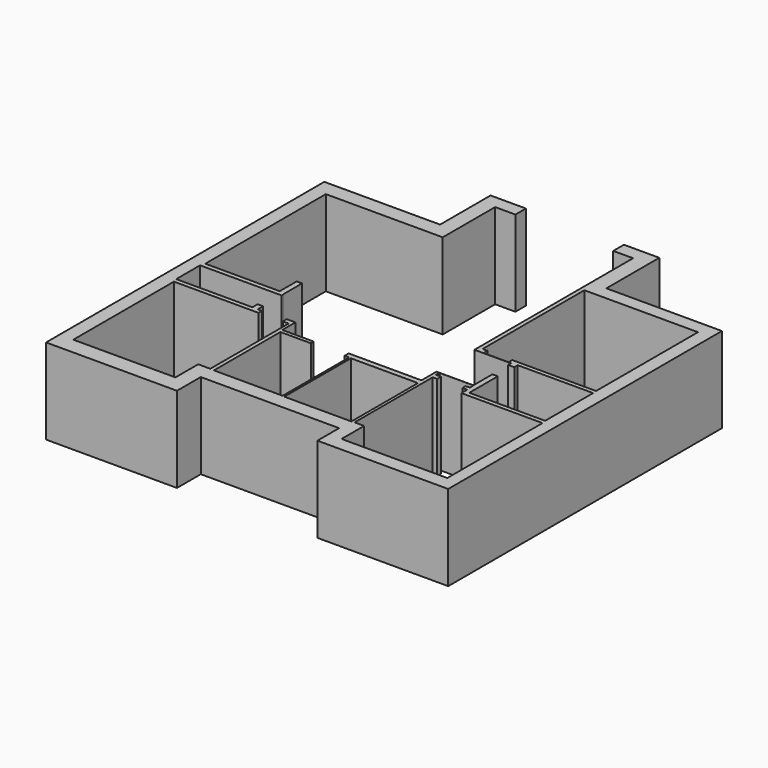
from build123d import *

# Parameters (mm, degrees)
PAD_DEPTH            = 10
POCKET_DEPTH         = 0.001
POCKET_DEPTH_BACK    = 10.001
POCKET001_DEPTH      = 0.001
POCKET001_DEPTH_BACK = 10.001
POCKET002_DEPTH      = 0.001
POCKET002_DEPTH_BACK = 10.001
POCKET003_DEPTH      = 0.001
POCKET003_DEPTH_BACK = 10.001
POCKET004_DEPTH      = 0.001
POCKET004_DEPTH_BACK = 10.001
POCKET005_DEPTH      = 0.001
POCKET005_DEPTH_BACK = 10.001
POCKET006_DEPTH      = 0.001
POCKET006_DEPTH_BACK = 10.001
POCKET007_DEPTH      = 0.001
POCKET007_DEPTH_BACK = 10.001


with BuildPart() as part:
    # Sketch → Pad (new body)
    with BuildSketch(Plane.XY):
        Polygon((-24.869964, 16.395561), (-11.340966, 16.395561), (-11.340966, 23.768572), (8.37961, 23.768572), (8.37961, 16.040237), (21.881983, 16.040237), (21.881983, -23.94381), (6.594811, -23.94381), (6.594811, -20.773636), (-9.572513, -20.773636), (-9.572513, -24.250378), (-24.869964, -24.250378), align=None)
    extrude(amount=PAD_DEPTH)

    # Sketch001 → Pocket (cut, two sides)
    with BuildSketch(Plane.XY) as pocket_sk:
        Polygon((7.042854, 14.493185), (7.042854, -0.376181), (7.60472, -0.376181), (7.60472, -0.938048), (10.529679, -0.938048), (10.529679, -0.392844), (20.320467, -0.392844), (20.320467, 4.433404), (20.320467, 12.107393), (20.320467, 14.493185), (11.347224, 14.493185), (7.737097, 14.493185), align=None)
    extrude(amount=-POCKET_DEPTH, mode=Mode.SUBTRACT)
    extrude(pocket_sk.sketch, amount=POCKET_DEPTH_BACK, mode=Mode.SUBTRACT)

    # Sketch002 → Pocket001 (cut, two sides)
    with BuildSketch(Plane.XY) as pocket001_sk:
        Polygon((6.562266, -8.697514), (6.562266, 17.730482), (6.562266, 20.972402), (6.562266, 22.205465), (4.247283, 22.205465), (4.247283, 23.77135), (-7.208705, 23.77135), (-7.208705, 22.236126), (-9.579967, 22.236126), (-9.579967, 20.501596), (-9.579967, 17.725863), (-9.579967, -8.859713), (-5.78053, -8.859713), (-5.78053, -9.246999), (-1.996924, -9.246999), (-1.996924, -8.697514), align=None)
    extrude(amount=-POCKET001_DEPTH, mode=Mode.SUBTRACT)
    extrude(pocket001_sk.sketch, amount=POCKET001_DEPTH_BACK, mode=Mode.SUBTRACT)

    # Sketch003 → Pocket002 (cut, two sides)
    with BuildSketch(Plane.XY) as pocket002_sk:
        Polygon((-9.555696, 14.58253), (-11.251103, 14.58253), (-14.140704, 14.58253), (-23.244276, 14.58253), (-23.244276, 10.916287), (-23.244276, 3.175509), (-23.244276, -3.024841), (-14.543381, -3.024841), (-14.543381, -0.542157), (-13.913779, -0.542157), (-13.913779, -3.319152), (-9.555696, -3.319152), align=None)
    extrude(amount=-POCKET002_DEPTH, mode=Mode.SUBTRACT)
    extrude(pocket002_sk.sketch, amount=POCKET002_DEPTH_BACK, mode=Mode.SUBTRACT)

    # Sketch004 → Pocket003 (cut, two sides)
    with BuildSketch(Plane.XY) as pocket003_sk:
        Polygon((-23.265747, -7.57667), (-23.265747, -22.274162), (-20.999838, -22.274162), (-13.232408, -22.274162), (-11.332763, -22.274162), (-11.332763, -18.95647), (-9.916094, -18.95647), (-9.916094, -7.509449), (-10.598124, -7.509449), (-10.598124, -6.945273), (-9.384972, -6.945273), (-9.384972, -0.656561), (-13.872682, -0.656561), (-13.872682, -3.571327), (-23.414576, -3.571327), (-23.414576, -7.059722), (-14.509603, -7.059722), (-14.509603, -6.304652), (-13.875799, -6.304652), (-13.875799, -7.078746), (-13.37953, -7.078746), (-13.37953, -7.57667), align=None)
    extrude(amount=-POCKET003_DEPTH, mode=Mode.SUBTRACT)
    extrude(pocket003_sk.sketch, amount=POCKET003_DEPTH_BACK, mode=Mode.SUBTRACT)

    # Sketch005 → Pocket004 (cut, two sides)
    with BuildSketch(Plane.XY) as pocket004_sk:
        Polygon((-9.459572, -9.286458), (-9.459572, -18.99835), (-6.993228, -18.99835), (-2.81149, -18.99835), (-1.42501, -18.99835), (-1.42501, -9.292158), (-1.95218, -9.292158), (-1.95218, -8.499968), (-5.901244, -8.499968), (-5.901244, -9.286458), align=None)
    extrude(amount=-POCKET004_DEPTH, mode=Mode.SUBTRACT)
    extrude(pocket004_sk.sketch, amount=POCKET004_DEPTH_BACK, mode=Mode.SUBTRACT)

    # Sketch006 → Pocket005 (cut, two sides)
    with BuildSketch(Plane.XY) as pocket005_sk:
        Polygon((-1.187414, -9.325391), (-1.187414, -19.042973), (3.81931, -19.042973), (6.650182, -19.042973), (6.650182, -9.325391), align=None)
    extrude(amount=-POCKET005_DEPTH, mode=Mode.SUBTRACT)
    extrude(pocket005_sk.sketch, amount=POCKET005_DEPTH_BACK, mode=Mode.SUBTRACT)

    # Sketch007 → Pocket006 (cut, two sides)
    with BuildSketch(Plane.XY) as pocket006_sk:
        Polygon((6.904032, -6.522334), (6.904032, -7.023237), (7.502099, -7.023237), (7.502099, -7.587341), (6.984618, -7.587341), (6.984618, -19.001835), (8.102534, -19.001835), (8.102534, -22.300638), (10.341199, -22.300638), (18.38561, -22.300638), (20.463644, -22.300638), (20.463644, -8.397645), (10.979427, -8.397645), (10.979427, -7.547909), (10.426148, -7.547909), (10.426148, -7.063529), (10.909175, -7.063529), (10.909175, -6.522334), align=None)
    extrude(amount=-POCKET006_DEPTH, mode=Mode.SUBTRACT)
    extrude(pocket006_sk.sketch, amount=POCKET006_DEPTH_BACK, mode=Mode.SUBTRACT)

    # Sketch008 → Pocket007 (cut, two sides)
    with BuildSketch(Plane.XY) as pocket007_sk:
        Polygon((11.501872, -3.733678), (11.501872, -7.893655), (20.367885, -7.893655), (20.367885, -5.953888), (20.367885, -2.59785), (20.367885, -0.882918), (11.555678, -0.882918), (11.555678, -1.383317), (10.838286, -1.383317), (10.838286, -0.96668), (6.526137, -0.96668), (6.526137, -6.505466), (10.874155, -6.505466), (10.874155, -3.715743), align=None)
    extrude(amount=-POCKET007_DEPTH, mode=Mode.SUBTRACT)
    extrude(pocket007_sk.sketch, amount=POCKET007_DEPTH_BACK, mode=Mode.SUBTRACT)


solid = part.part
